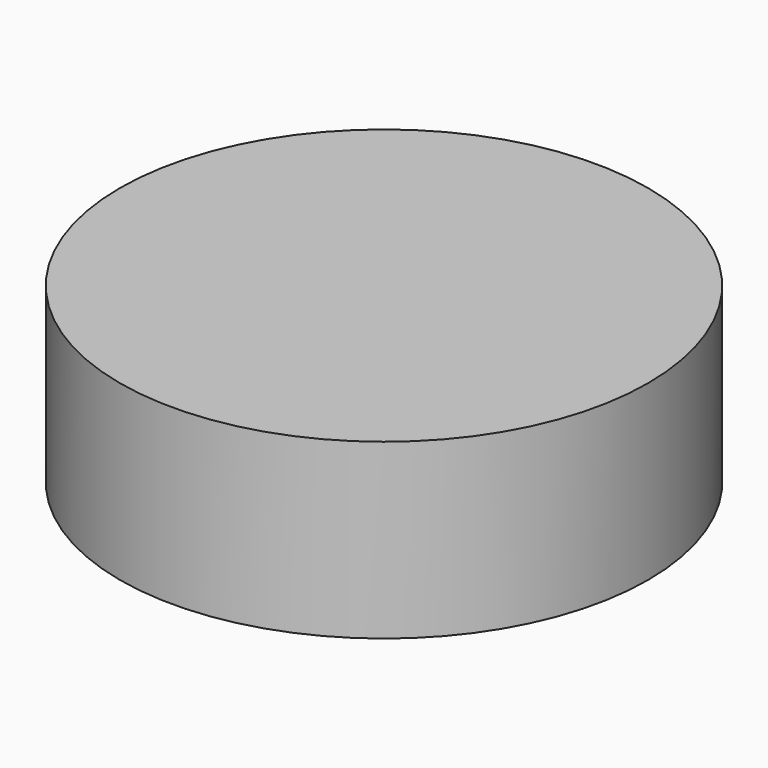
from build123d import *

# Parameters (mm, degrees)
F4_D           = 3.3
F4_CBORE_D     = 6.5
F4_CBORE_DEPTH = 3
F3_R           = 0.75
F5_DEPTH       = 25
F7_R           = 19.0549841128
F7_R_2         = 17.2138714766
F8_DEPTH       = 12.5
F9_DEPTH       = 1
F11_R          = 0.625
F12_DEPTH      = 10.2


with BuildPart() as f1:
    # F0 (on Front) → F1 (revolve)
    with BuildSketch(Plane.XZ):
        with BuildLine():
            ThreePointArc((-15.4482908223, 3.2919894022), (-14.0064014383, 0), (-15.4482908223, -3.2919894022))
            Line((-15.4482908223, -3.2919894022), (0, -3.2919894022))
            Line((0, -3.2919894022), (0, 3.2919894022))
            Line((0, 3.2919894022), (-15.4482908223, 3.2919894022))
        make_face()
    revolve(axis=Axis((0, 0, 0), (0, 0, -1)))

    # F4 (through all)
    with Locations(Plane.XY.offset(3.2919894022)):
        with Locations((0, 0)):
            CounterBoreHole(F4_D / 2, F4_CBORE_D / 2, F4_CBORE_DEPTH)

    # F3 (on offset) → F5 (cut)
    with BuildSketch(Plane.XY.offset(3.2919894022)):
        with Locations((-7.6972323188, 6.3837774578)):
            Circle(F3_R)
    extrude(amount=-F5_DEPTH, mode=Mode.SUBTRACT)


with BuildPart() as f8:
    # F7 (on offset) → F8 (new body)
    with BuildSketch(Plane.XY.offset(6.2919894022)):
        Circle(F7_R)
        Circle(F7_R_2, mode=Mode.SUBTRACT)
    extrude(amount=-F8_DEPTH)

    # F7 (on offset) → F9 (join)
    with BuildSketch(Plane.XY.offset(6.2919894022)):
        Circle(F7_R_2)
    extrude(amount=-F9_DEPTH)


with BuildPart() as f12:
    # F11 (on offset) → F12 (new body)
    with BuildSketch(Plane(origin=(0, 0, 5.2919894022), x_dir=(1, 0, 0), z_dir=(0, 0, -1))):
        with Locations((-7.6972323188, -6.3837774578)):
            Circle(F11_R)
    extrude(amount=F12_DEPTH)


solid = Compound([f1.part, f8.part, f12.part])
